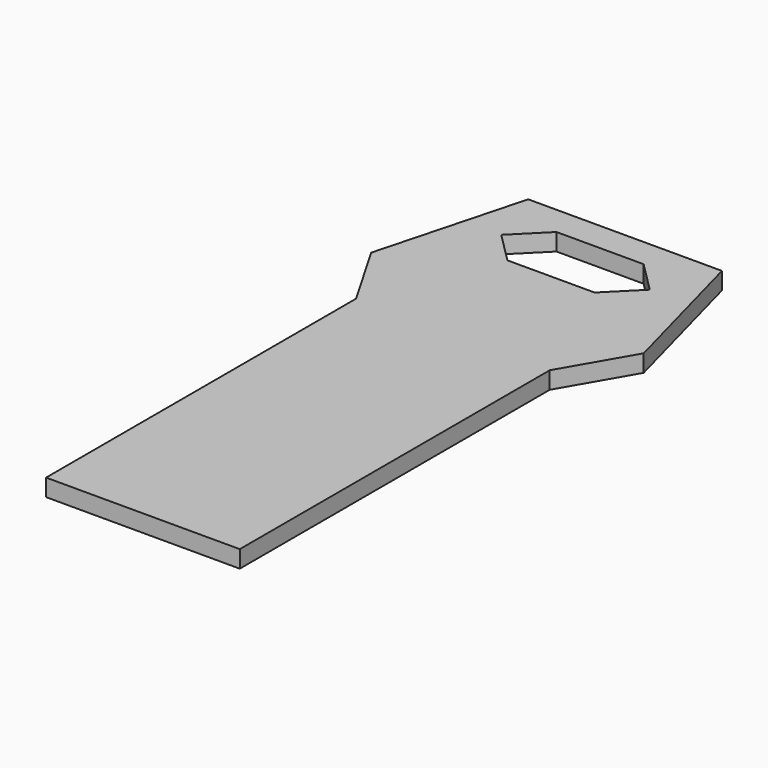
from build123d import *

# Parameters (mm, degrees)
F0_W     = 45
F0_H     = 90
F1_DEPTH = 4
F3_DEPTH = 4.001


with BuildPart() as f1:
    # F0 (on Top) → F1 (new body)
    with BuildSketch(Plane.XY):
        Polygon((-31.650635, 60.849365), (-22.5, 45), (22.5, 45), (31.650635, 60.849365), (22.5, 95), (-22.5, 95), align=None)
        Rectangle(F0_W, F0_H)
    extrude(amount=F1_DEPTH)

    # F2 (on face) → F3 (cut, through all)
    with BuildSketch(Plane.XY.offset(4)):
        Polygon((9.774995, 73.923176), (16.899995, 81.048176), (9.774995, 88.173176), (-10.475005, 88.173176), (-17.600005, 81.048176), (-10.475005, 73.923176), align=None)
    extrude(amount=-F3_DEPTH, mode=Mode.SUBTRACT)


solid = f1.part
